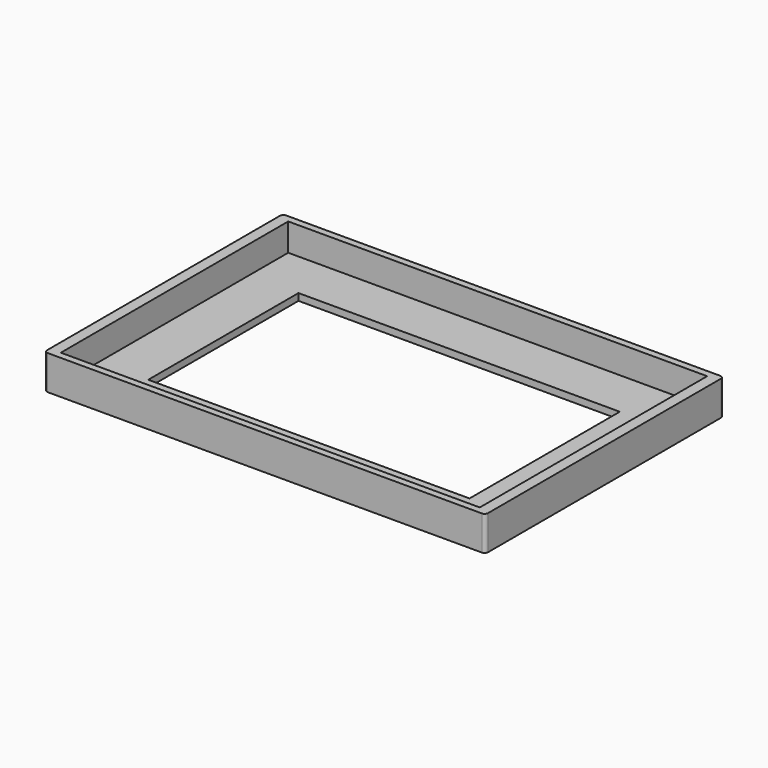
from build123d import *

# Parameters (mm, degrees)
F0_W     = 128
F0_H     = 86.5
F0_W_2   = 93.25
F0_H_2   = 54.5
F1_DEPTH = 2
F2_W     = 3.2
F2_H     = 82.5
F2_H_2   = 2
F2_W_2   = 121.6
F3_DEPTH = 8
F4_R     = 1


with BuildPart() as f1:
    # F0 (on Top) → F1 (new body)
    with BuildSketch(Plane.XY):
        Rectangle(F0_W, F0_H)
        Rectangle(F0_W_2, F0_H_2, mode=Mode.SUBTRACT)
    extrude(amount=F1_DEPTH)

    # F2 (on face) → F3 (join)
    with BuildSketch(Plane.XY.offset(2)):
        with Locations((-62.4, 0)):
            Rectangle(F2_W, F2_H)
        with Locations((-62.4, 42.25)):
            Rectangle(F2_W, F2_H_2)
        with Locations((0, 42.25)):
            Rectangle(F2_W_2, F2_H_2)
        with Locations((62.4, 42.25)):
            Rectangle(F2_W, F2_H_2)
        with Locations((62.4, 0)):
            Rectangle(F2_W, F2_H)
        with Locations((62.4, -42.25)):
            Rectangle(F2_W, F2_H_2)
        with Locations((0, -42.25)):
            Rectangle(F2_W_2, F2_H_2)
        with Locations((-62.4, -42.25)):
            Rectangle(F2_W, F2_H_2)
    extrude(amount=F3_DEPTH)

    # F4
    f4_edges = [f1.edges().sort_by_distance(p)[0] for p in [
        (-64, -43.25, 5),
        (-64, 43.25, 5),
        (64, -43.25, 5),
        (64, 43.25, 5),
    ]]
    fillet(f4_edges, radius=F4_R)


solid = f1.part
